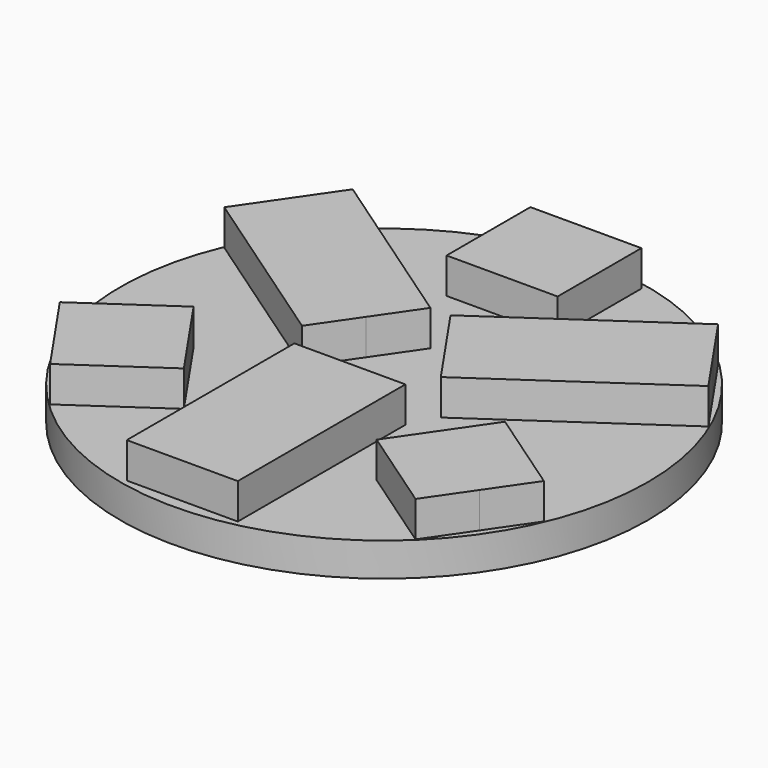
from build123d import *

# Parameters (mm, degrees)
F0_R     = 12.6
F1_DEPTH = 1.6
F2_W     = 2.65
F2_H     = 5
F3_DEPTH = 1.7


with BuildPart() as f1:
    # F0 (on Top) → F1 (new body)
    with BuildSketch(Plane.XY):
        Circle(F0_R)
    extrude(amount=F1_DEPTH)

    # F2 (on face) → F3 (join)
    with BuildSketch(Plane.XY.offset(1.6)):
        with Locations((1.325, -9.542)):
            Rectangle(F2_W, F2_H)
        with Locations((-1.325, -9.542)):
            Rectangle(F2_W, F2_H)
        Polygon((-2.65, -7.042), (0, -7.042), (2.65, -7.042), (2.65, -2.042), (0, -2.042), (-2.65, -2.042), align=None)
        Polygon((4.601201, -6.195834), (8.721832, -9.027865), (10.137848, -6.96755), (11.553864, -4.907234), (7.433233, -2.075203), align=None)
        Polygon((-8.721832, -9.027865), (-4.601201, -6.195834), (-7.433233, -2.075203), (-11.553864, -4.907234), (-10.137848, -6.96755), align=None)
        Polygon((0, 12.042), (-2.65, 12.042), (-2.65, 7.042), (0, 7.042), (2.65, 7.042), (2.65, 12.042), align=None)
        Polygon((7.433233, 2.075203), (11.553864, 4.907234), (10.137848, 6.96755), (8.721832, 9.027865), (4.601201, 6.195834), align=None)
        Polygon((3.312602, -0.756828), (7.433233, 2.075203), (4.601201, 6.195834), (0.48057, 3.363803), (1.896586, 1.303487), align=None)
        Polygon((-0.48057, 3.363803), (-4.601201, 6.195834), (-7.433233, 2.075203), (-3.312602, -0.756828), (-1.896586, 1.303487), align=None)
        Polygon((-7.433233, 2.075203), (-4.601201, 6.195834), (-8.721832, 9.027865), (-10.137848, 6.96755), (-11.553864, 4.907234), align=None)
    extrude(amount=F3_DEPTH)


solid = f1.part
